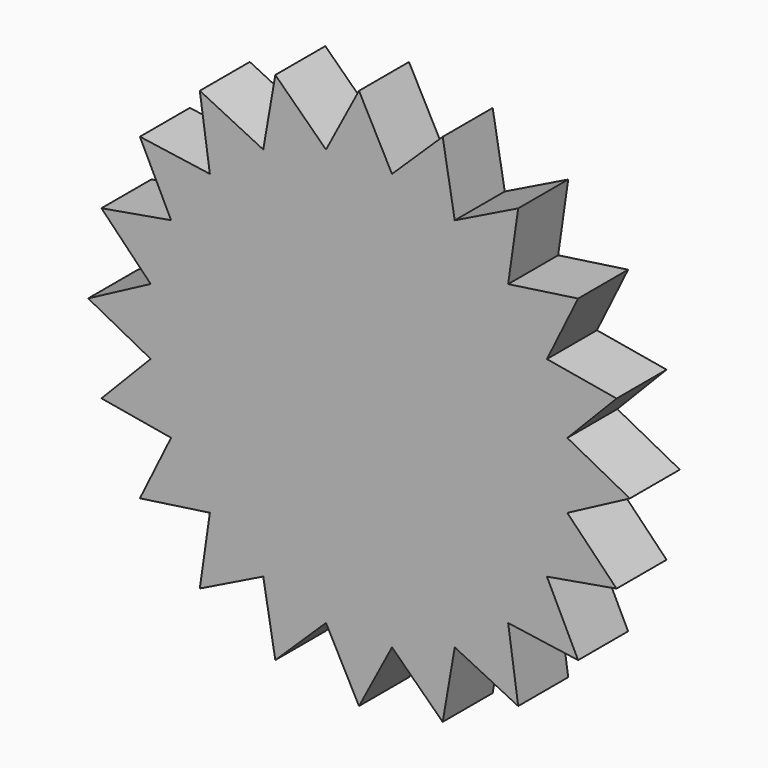
from build123d import *

# Parameters (mm, degrees)
F1_DEPTH = 3


with BuildPart() as f1:
    # F0 (on Front) → F1 (new body)
    with BuildSketch(Plane.XZ):
        Polygon((13, 0), (10, 1.5838444032), (10, -1.5838444032), align=None)
        Polygon((10, -1.5838444032), (10, 1.5838444032), (9.0211303259, 4.5964954843), (7.1592095616, 7.1592095616), (4.5964954843, 9.0211303259), (1.5838444032, 10), (-1.5838444032, 10), (-4.5964954843, 9.0211303259), (-7.1592095616, 7.1592095616), (-9.0211303259, 4.5964954843), (-10, 1.5838444032), (-10, -1.5838444032), (-9.0211303259, -4.5964954843), (-7.1592095616, -7.1592095616), (-4.5964954843, -9.0211303259), (-1.5838444032, -10), (1.5838444032, -10), (4.5964954843, -9.0211303259), (7.1592095616, -7.1592095616), (9.0211303259, -4.5964954843), align=None)
        Polygon((9.0211303259, 4.5964954843), (10, 1.5838444032), (12.3637347118, 4.0172209269), align=None)
        Polygon((12.3637347118, -4.0172209269), (10, -1.5838444032), (9.0211303259, -4.5964954843), align=None)
        Polygon((7.1592095616, 7.1592095616), (9.0211303259, 4.5964954843), (10.5172209269, 7.6412082798), align=None)
        Polygon((10.5172209269, -7.6412082798), (9.0211303259, -4.5964954843), (7.1592095616, -7.1592095616), align=None)
        Polygon((4.5964954843, 9.0211303259), (7.1592095616, 7.1592095616), (7.6412082798, 10.5172209269), align=None)
        Polygon((7.6412082798, -10.5172209269), (7.1592095616, -7.1592095616), (4.5964954843, -9.0211303259), align=None)
        Polygon((1.5838444032, 10), (4.5964954843, 9.0211303259), (4.0172209269, 12.3637347118), align=None)
        Polygon((4.0172209269, -12.3637347118), (4.5964954843, -9.0211303259), (1.5838444032, -10), align=None)
        Polygon((-1.5838444032, 10), (1.5838444032, 10), (0, 13), align=None)
        Polygon((0, -13), (1.5838444032, -10), (-1.5838444032, -10), align=None)
        Polygon((-4.5964954843, 9.0211303259), (-1.5838444032, 10), (-4.0172209269, 12.3637347118), align=None)
        Polygon((-4.0172209269, -12.3637347118), (-1.5838444032, -10), (-4.5964954843, -9.0211303259), align=None)
        Polygon((-7.1592095616, 7.1592095616), (-4.5964954843, 9.0211303259), (-7.6412082798, 10.5172209269), align=None)
        Polygon((-7.6412082798, -10.5172209269), (-4.5964954843, -9.0211303259), (-7.1592095616, -7.1592095616), align=None)
        Polygon((-9.0211303259, 4.5964954843), (-7.1592095616, 7.1592095616), (-10.5172209269, 7.6412082798), align=None)
        Polygon((-10.5172209269, -7.6412082798), (-7.1592095616, -7.1592095616), (-9.0211303259, -4.5964954843), align=None)
        Polygon((-10, 1.5838444032), (-9.0211303259, 4.5964954843), (-12.3637347118, 4.0172209269), align=None)
        Polygon((-12.3637347118, -4.0172209269), (-9.0211303259, -4.5964954843), (-10, -1.5838444032), align=None)
        Polygon((-10, -1.5838444032), (-10, 1.5838444032), (-13, 0), align=None)
    extrude(amount=F1_DEPTH)


solid = f1.part
